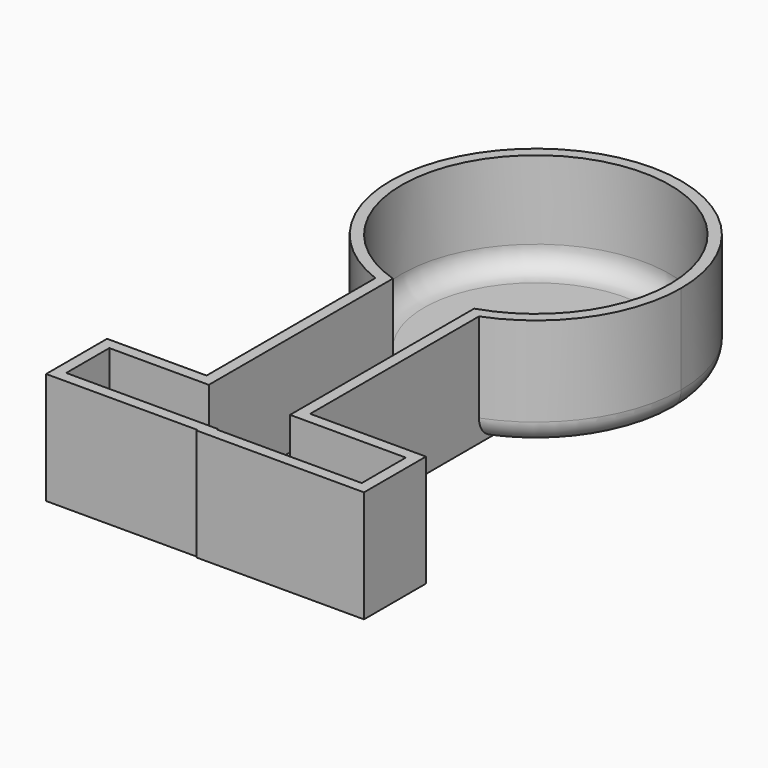
from build123d import *

# Parameters (mm, degrees)
F1_DEPTH = 25.4
F2_T     = -2.54
F3_R     = 5.08


with BuildPart() as f1:
    # F0 (on Top) → F1 (new body)
    with BuildSketch(Plane.XY):
        with BuildLine():
            ThreePointArc((-26.2971203774, -13.5154537857), (-38.0627484992, -15.6835315492), (-49.828376621, -13.5154537857))
            Line((-49.828376621, -13.5154537857), (-49.828376621, -61.4348314703))
            Line((-49.828376621, -61.4348314703), (-38.0627484992, -61.4348314703))
            Line((-38.0627484992, -61.4348314703), (-26.2971203774, -61.4348314703))
            Line((-26.2971203774, -61.4348314703), (-26.2971203774, -13.5154537857))
        make_face()
        with BuildLine():
            Line((-26.2971203774, -13.5154537857), (-49.828376621, -13.5154537857))
            ThreePointArc((-49.828376621, -13.5154537857), (-38.0627484992, -15.6835315492), (-26.2971203774, -13.5154537857))
        make_face()
        with BuildLine():
            ThreePointArc((-5.0541155298, 17.3251014203), (-56.7870982901, 44.5090778663), (-49.828376621, -13.5154537857))
            Line((-49.828376621, -13.5154537857), (-26.2971203774, -13.5154537857))
            ThreePointArc((-26.2971203774, -13.5154537857), (-10.8787720532, -1.3992483706), (-5.0541155298, 17.3251014203))
        make_face()
        Polygon((-38.0627484992, -61.4348314703), (-49.828376621, -61.4348314703), (-72.4281072617, -61.4348314703), (-72.4281072617, -78.7463337183), (-38.0627484992, -78.7463337183), align=None)
        Polygon((0, -61.4348314703), (-26.2971203774, -61.4348314703), (-38.0627484992, -61.4348314703), (-38.0627484992, -78.7463337183), (-38.0627484992, -79.0289491415), (0, -79.0289491415), align=None)
    extrude(amount=F1_DEPTH)

    # F2
    f2_openings = [f1.faces().sort_by_distance(p)[0] for p in [
        (-37.626368, -12.314928, 25.4),
    ]]
    offset(amount=F2_T, openings=f2_openings, kind=Kind.INTERSECTION)

    # F3
    f3_edges = [f1.edges().sort_by_distance(p)[0] for p in [
        (-38.062748, 47.793734, 2.54),
        (-38.062748, 50.333734, 0),
    ]]
    fillet(f3_edges, radius=F3_R)


solid = f1.part
